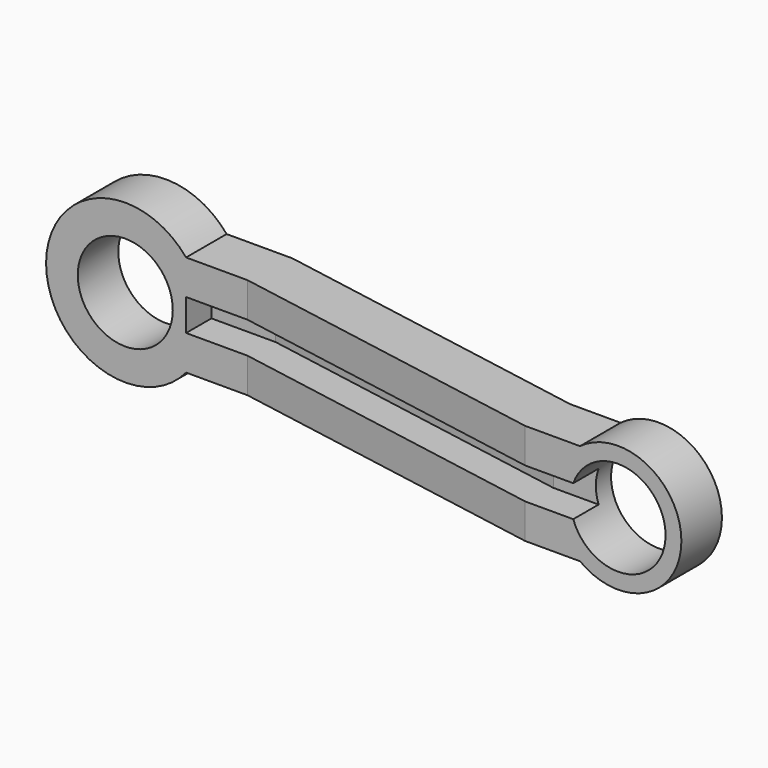
from build123d import *

# Parameters (mm, degrees)
F0_R     = 7.5
F1_DEPTH = 25
F3_DEPTH = 12.5
F5_DEPTH = 2.5


with BuildPart() as f1:
    # F0 (on Front) → F1 (new body)
    with BuildSketch(Plane.XZ):
        with BuildLine():
            ThreePointArc((9.6046863561, -8), (11.7539052968, -4.2539052968), (12.5, 0))
            ThreePointArc((12.5, 0), (11.7539052968, 4.2539052968), (9.6046863561, 8))
            ThreePointArc((9.6046863561, 8), (-12.5, 0), (9.6046863561, -8))
        make_face()
        Circle(F0_R, mode=Mode.SUBTRACT)
        with BuildLine():
            ThreePointArc((95, 0), (89.472135955, 8.94427191), (79, 8))
            ThreePointArc((79, 8), (75, 0), (79, -8))
            ThreePointArc((79, -8), (89.472135955, -8.94427191), (95, 0))
        make_face()
        with Locations((85, 0)):
            Circle(F0_R, mode=Mode.SUBTRACT)
        with BuildLine():
            ThreePointArc((9.6046863561, 8), (11.7539052968, 4.2539052968), (12.5, 0))
            ThreePointArc((12.5, 0), (11.7539052968, -4.2539052968), (9.6046863561, -8))
            Line((9.6046863561, -8), (79, -8))
            ThreePointArc((79, -8), (75, 0), (79, 8))
            Line((79, 8), (9.6046863561, 8))
        make_face()
    extrude(amount=F1_DEPTH)

    # F2 (on Top) → F3 (intersect, symmetric)
    with BuildSketch(Plane.XY):
        Polygon((20, 0), (-12.5, 0), (-12.5, -8), (19.3000906918, -8), (70.3416270684, -17), (95, -17), (95, -9), (71.0415363766, -9), align=None)
    extrude(amount=F3_DEPTH, both=True, mode=Mode.INTERSECT)

    # F4 (on Top) → F5 (cut, symmetric)
    with BuildSketch(Plane.XY):
        Polygon((9.6046863561, -3), (9.6046863561, -8), (19.3000906918, -8), (21.884876116, -8.4557674096), (67.7568416441, -16.5442325904), (70.3416270684, -17), (79, -17), (79, -12), (70.779070386, -12), (19.7375340094, -3), align=None)
    extrude(amount=F5_DEPTH, both=True, mode=Mode.SUBTRACT)


solid = f1.part
